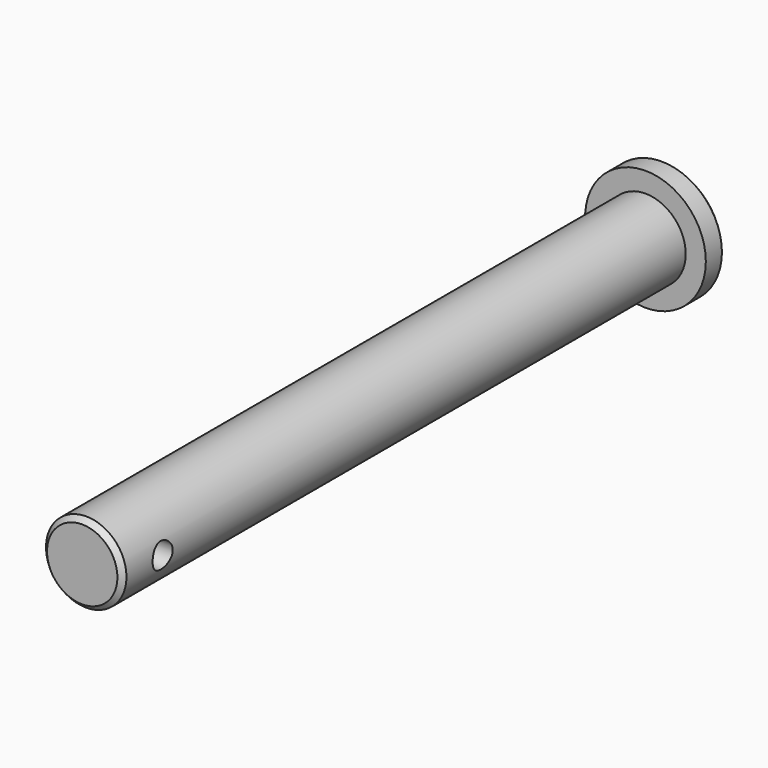
from build123d import *

# Parameters (mm, degrees)
F0_R     = 8
F1_DEPTH = 140
F0_R_2   = 12
F2_DEPTH = 5
F3_SIZE  = 1
F5_R     = 2.5
F6_DEPTH = 20.001


with BuildPart() as f1:
    # F0 (on Front) → F1 (new body)
    with BuildSketch(Plane.XZ):
        Circle(F0_R)
    extrude(amount=F1_DEPTH)

    # F0 (on Front) → F2 (join)
    with BuildSketch(Plane.XZ):
        Circle(F0_R_2)
        Circle(F0_R, mode=Mode.SUBTRACT)
        Circle(F0_R)
    extrude(amount=-F2_DEPTH)

    # F3
    f3_edges = [f1.edges().sort_by_distance(p)[0] for p in [
        (-12, 5, 0),
        (-8, -140, 0),
    ]]
    chamfer(f3_edges, length=F3_SIZE)

    # F5 (on offset) → F6 (cut, through all)
    with BuildSketch(Plane.YZ.offset(-8)):
        with Locations((-130, 0)):
            Circle(F5_R)
    extrude(amount=F6_DEPTH, mode=Mode.SUBTRACT)


solid = f1.part
